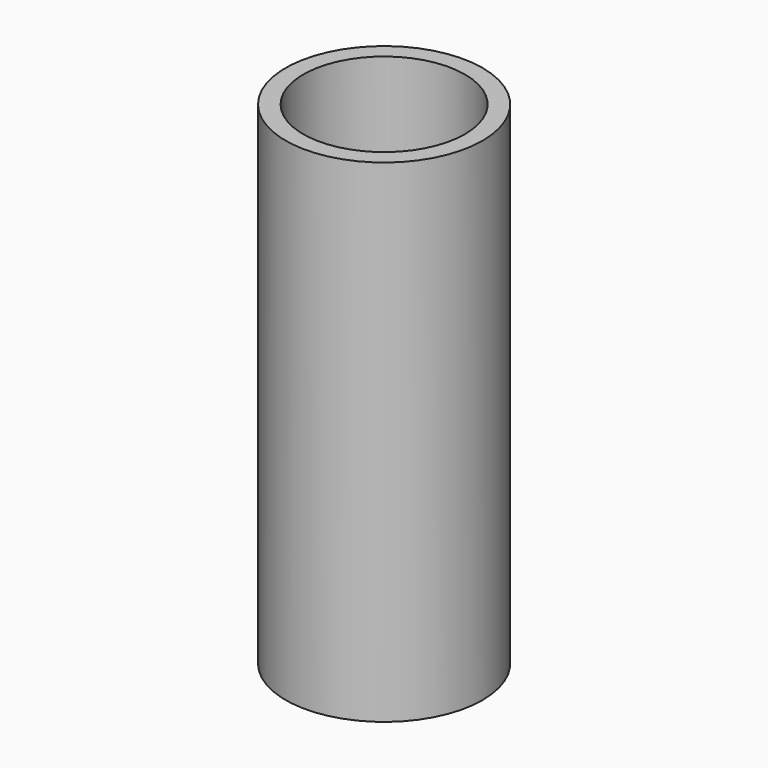
from build123d import *

# Parameters (mm, degrees)
F0_R     = 381
F0_R_2   = 312.840136
F1_DEPTH = 25.4
F2_DEPTH = 1905


with BuildPart() as f1:
    # F0 (on Top) → F1 (new body)
    with BuildSketch(Plane.XY):
        with Locations((0, 68.136305)):
            Circle(F0_R)
        with Locations((0, 68.136305)):
            Circle(F0_R_2, mode=Mode.SUBTRACT)
        with Locations((0, 68.136305)):
            Circle(F0_R)
        with Locations((0, 68.136305)):
            Circle(F0_R_2, mode=Mode.SUBTRACT)
    extrude(amount=F1_DEPTH)

    # F0 (on Top) → F2 (join)
    with BuildSketch(Plane.XY):
        with Locations((0, 68.136305)):
            Circle(F0_R)
        with Locations((0, 68.136305)):
            Circle(F0_R_2, mode=Mode.SUBTRACT)
    extrude(amount=F2_DEPTH)


solid = f1.part
